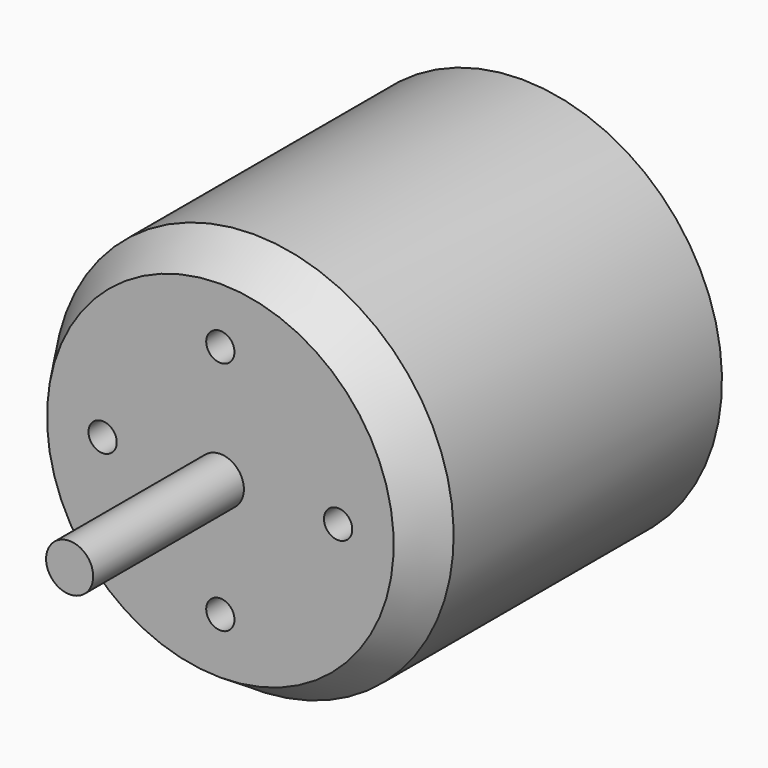
from build123d import *

# Parameters (mm, degrees)
F2_R     = 1.5
F3_DEPTH = 5
F4_R     = 1.5
F5_DEPTH = 5


with BuildPart() as f1:
    # F0 (on Right) → F1 (revolve)
    with BuildSketch(Plane.YZ):
        Polygon((-20, 2.5), (-20, 0), (50, 0), (50, 6), (46.5, 6), (46.5, 12.7), (40, 21.25), (4.4, 21.25), (0, 18.4), (0, 2.5), align=None)
    revolve(axis=Axis((0, 15, 0), (0, -1, 0)))

    # F2 (on face) → F3 (cut)
    with BuildSketch(Plane.XZ):
        with Locations((12.5, 0)):
            Circle(F2_R)
        with Locations((0, 12.5)):
            Circle(F2_R)
        with Locations((-12.5, 0)):
            Circle(F2_R)
        with Locations((0, -12.5)):
            Circle(F2_R)
    extrude(amount=-F3_DEPTH, mode=Mode.SUBTRACT)

    # F4 (on face) → F5 (cut)
    with BuildSketch(Plane(origin=(0, 46.5, 0), x_dir=(-1, 0, 0), z_dir=(0, 1, 0))):
        with Locations((8.5, 0)):
            Circle(F4_R)
        with Locations((0, 8.5)):
            Circle(F4_R)
        with Locations((-8.5, 0)):
            Circle(F4_R)
        with Locations((0, -8.5)):
            Circle(F4_R)
    extrude(amount=-F5_DEPTH, mode=Mode.SUBTRACT)


solid = f1.part
